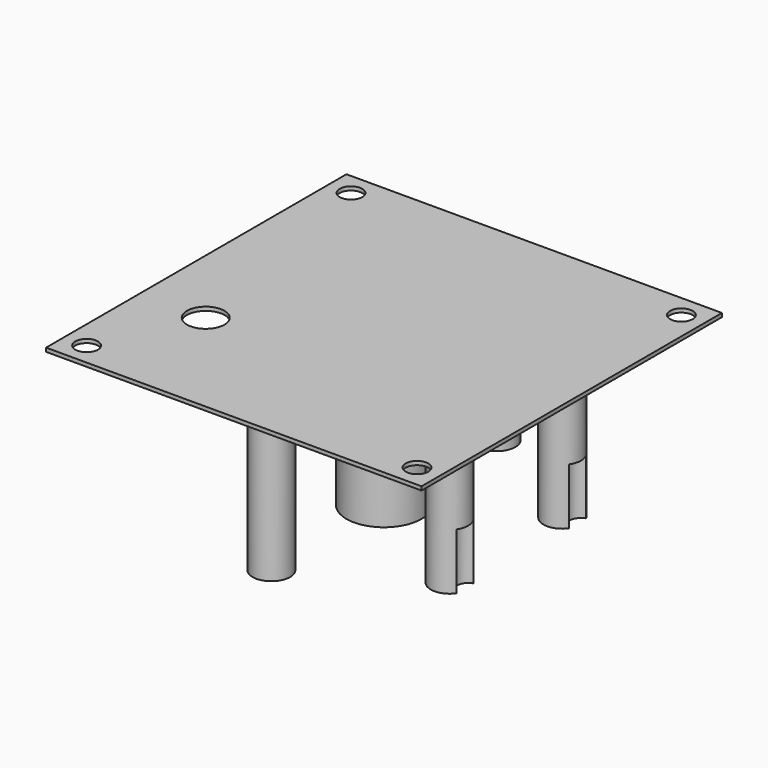
from build123d import *

# Parameters (mm, degrees)
SKETCH001_W       = 200
SKETCH001_H       = 200
SKETCH001_R       = 6
SKETCH001_R_2     = 10
SKETCH001_R_3     = 20
PAD_DEPTH         = 2
SKETCH_R          = 10
SKETCH_R_2        = 20
PAD001_DEPTH      = 80
PAD001_DEPTH_BACK = 2
SKETCH002_R       = 6
POCKET_DEPTH      = 30


with BuildPart() as part:
    # Sketch001 → Pad (new body)
    with BuildSketch(Plane.XY):
        with Locations((100, 100)):
            Rectangle(SKETCH001_W, SKETCH001_H)
        with Locations((12, 12)):
            Circle(SKETCH001_R, mode=Mode.SUBTRACT)
        with Locations((12, 188)):
            Circle(SKETCH001_R, mode=Mode.SUBTRACT)
        with Locations((188, 188)):
            Circle(SKETCH001_R, mode=Mode.SUBTRACT)
        with Locations((188, 12)):
            Circle(SKETCH001_R, mode=Mode.SUBTRACT)
        with Locations((100, 175)):
            Circle(SKETCH001_R_2, mode=Mode.SUBTRACT)
        with Locations((35.048095, 137.5)):
            Circle(SKETCH001_R_2, mode=Mode.SUBTRACT)
        with Locations((35.048095, 62.5)):
            Circle(SKETCH001_R_2, mode=Mode.SUBTRACT)
        with Locations((100, 25)):
            Circle(SKETCH001_R_2, mode=Mode.SUBTRACT)
        with Locations((164.951905, 62.5)):
            Circle(SKETCH001_R_2, mode=Mode.SUBTRACT)
        with Locations((164.951905, 137.5)):
            Circle(SKETCH001_R_2, mode=Mode.SUBTRACT)
        with Locations((100, 100)):
            Circle(SKETCH001_R_3, mode=Mode.SUBTRACT)
    extrude(amount=PAD_DEPTH)

    # Sketch (on Face16 of Pad) → Pad001 (new body, two sides)
    with BuildSketch(Plane(origin=(0, 0, 0), x_dir=(1, 0, 0), z_dir=(0, 0, -1))) as pad001_sk:
        with Locations((164.951905, -62.5)):
            Circle(SKETCH_R)
        with Locations((100, -175)):
            Circle(SKETCH_R)
        with Locations((100, -25)):
            Circle(SKETCH_R)
        with Locations((35.048095, -137.5)):
            Circle(SKETCH_R)
        with Locations((164.951905, -137.5)):
            Circle(SKETCH_R)
        with Locations((100, -100)):
            Circle(SKETCH_R_2)
    extrude(amount=PAD001_DEPTH)
    extrude(pad001_sk.sketch, amount=-PAD001_DEPTH_BACK)

    # Sketch002 (on Face24 of Pad001) → Pocket (cut)
    with BuildSketch(Plane(origin=(0, 0, -80), x_dir=(1, 0, 0), z_dir=(0, 0, -1))):
        with Locations((113.064442, -114.794754)):
            Circle(SKETCH002_R)
        with Locations((35.048095, -62.5)):
            Circle(SKETCH002_R)
        with Locations((100, -175)):
            Circle(SKETCH002_R)
        with Locations((45.048095, -137.5)):
            Circle(SKETCH002_R)
        with Locations((174.951905, -62.5)):
            Circle(SKETCH002_R)
        with Locations((174.951905, -137.5)):
            Circle(SKETCH002_R)
    extrude(amount=-POCKET_DEPTH, mode=Mode.SUBTRACT)


solid = part.part
